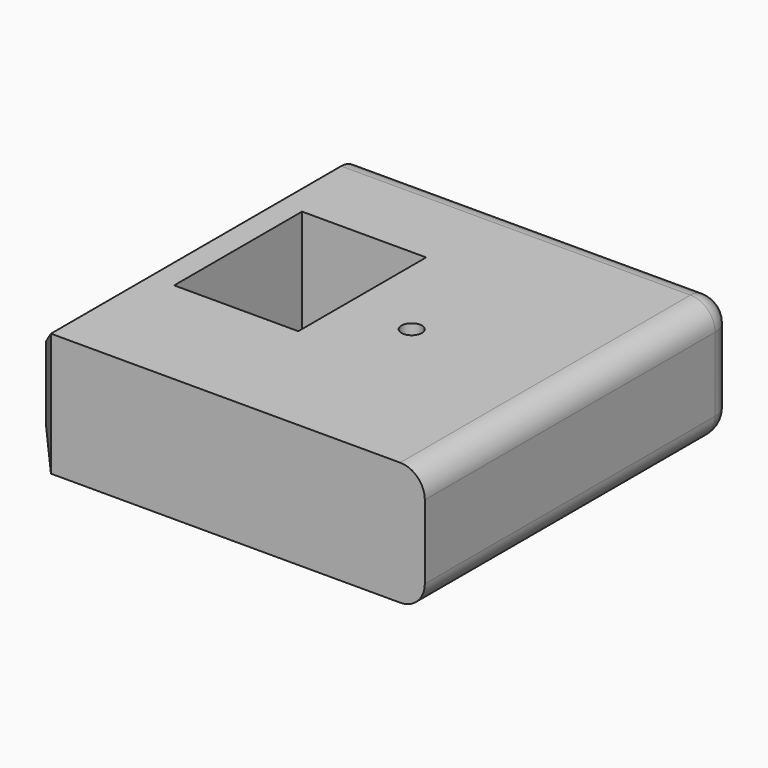
from build123d import *

# Parameters (mm, degrees)
F0_W     = 82.0379033685
F0_H     = 79.8256471753
F1_DEPTH = 25.4
F3_D     = 4.2
F4_R     = 5.08
F5_R     = 5.08
F6_R     = 5.08
F7_W     = 25.5733272061
F7_H     = 32.9347681254
F8_DEPTH = 25.4
F9_SIZE  = 5


with BuildPart() as f1:
    # F0 (on Top) → F1 (new body)
    with BuildSketch(Plane.XY):
        with Locations((41.0189516842, 39.9128235877)):
            Rectangle(F0_W, F0_H)
    extrude(amount=F1_DEPTH)

    # F3 (through all)
    with Locations(Plane.XY.offset(25.4)):
        with Locations((49.3793413043, 37.4442487955)):
            Hole(F3_D / 2)

    # F4
    f4_edges = [f1.edges().sort_by_distance(p)[0] for p in [
        (82.037903, 79.825647, 12.7),
    ]]
    fillet(f4_edges, radius=F4_R)

    # F5
    f5_edges = [f1.edges().sort_by_distance(p)[0] for p in [
        (82.037903, 37.372824, 0),
    ]]
    fillet(f5_edges, radius=F5_R)

    # F6
    f6_edges = [f1.edges().sort_by_distance(p)[0] for p in [
        (38.478952, 79.825647, 25.4),
    ]]
    fillet(f6_edges, radius=F6_R)

    # F7 (on face) → F8 (cut)
    with BuildSketch(Plane.XY.offset(25.4)):
        with Locations((22.7667321451, 41.983817704)):
            Rectangle(F7_W, F7_H)
    extrude(amount=-F8_DEPTH, mode=Mode.SUBTRACT)

    # F9
    f9_edges = [f1.edges().sort_by_distance(p)[0] for p in [
        (0, 79.825647, 12.7),
        (0, 78.33775, 23.912102),
        (0, 78.33775, 1.487898),
        (0, 37.372824, 25.4),
        (0, 37.372824, 0),
        (0, 0, 12.7),
    ]]
    chamfer(f9_edges, length=F9_SIZE)


solid = f1.part
